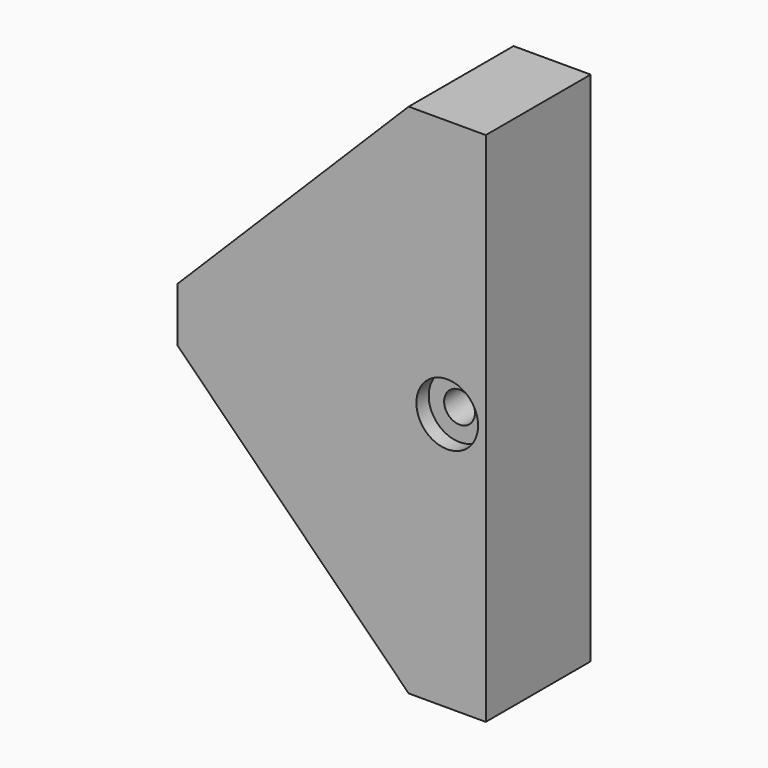
from build123d import *

# Parameters (mm, degrees)
F1_DEPTH = 6
F3_DEPTH = 2.5
F4_R     = 1
F5_DEPTH = 8.501
F6_R     = 2
F7_DEPTH = 1


with BuildPart() as f1:
    # F0 (on Front) → F1 (new body)
    with BuildSketch(Plane.XZ):
        Polygon((2.5, 1), (2.5, 16.75), (-2.5, 16.75), (-2.5, 1.75), (-17.5, 1.75), (-17.5, -1.75), (-2.5, -1.75), (-2.5, -16.75), (2.5, -16.75), (2.5, -2.5), align=None)
    extrude(amount=F1_DEPTH)

    # F2 (on face) → F3 (join)
    with BuildSketch(Plane.XZ.offset(6)):
        Polygon((-2.5, 16.75), (-17.5, 1.75), (-17.5, 0), (-17.5, -1.75), (-2.5, -16.75), (0, -16.75), (2.5, -16.75), (2.5, 16.75), (0, 16.75), align=None)
    extrude(amount=F3_DEPTH)

    # F4 (on face) → F5 (cut, through all)
    with BuildSketch(Plane(origin=(0, 0, 0), x_dir=(-1, 0, 0), z_dir=(0, 1, 0))):
        Circle(F4_R)
    extrude(amount=-F5_DEPTH, mode=Mode.SUBTRACT)

    # F6 (on face) → F7 (cut)
    with BuildSketch(Plane.XZ.offset(8.5)):
        Circle(F6_R)
    extrude(amount=-F7_DEPTH, mode=Mode.SUBTRACT)


solid = f1.part
